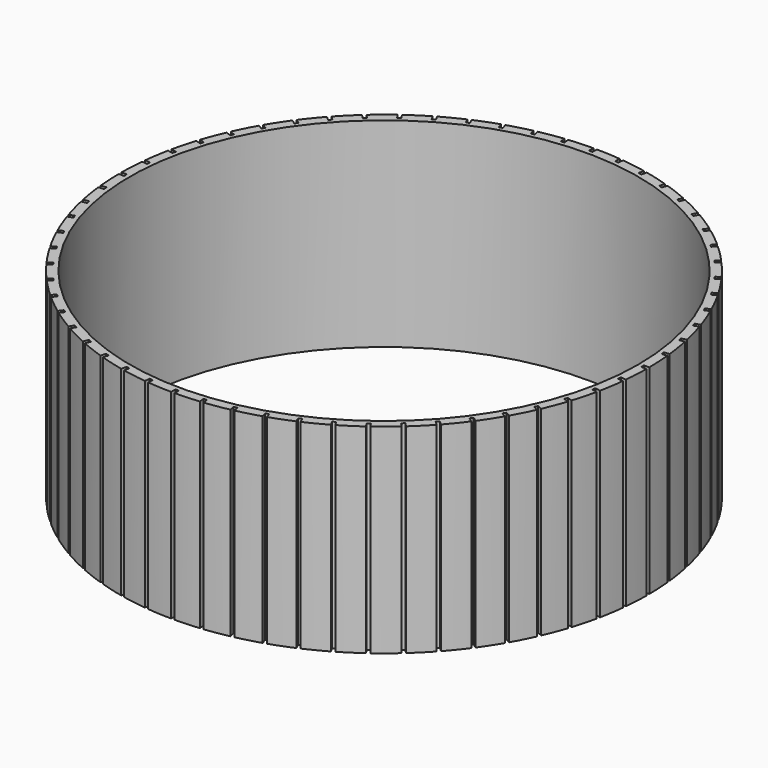
from build123d import *

# Parameters (mm, degrees)
F0_R     = 137.5
F0_R_2   = 132.5
F1_DEPTH = 104
F2_W     = 1.8
F2_H     = 5.6
F2_W_2   = 5.6
F2_H_2   = 1.8
F3_DEPTH = 104.001


with BuildPart() as f1:
    # F0 (on Top) → F1 (new body)
    with BuildSketch(Plane.XY):
        Circle(F0_R)
        Circle(F0_R_2, mode=Mode.SUBTRACT)
    extrude(amount=F1_DEPTH)

    # F2 (on face) → F3 (cut, through all)
    with BuildSketch(Plane.XY.offset(104)):
        with Locations((0, -137.5)):
            Rectangle(F2_W, F2_H)
        Polygon((13.184914, -134.056175), (13.770274, -139.625498), (15.560413, -139.437346), (14.975054, -133.868024), align=None)
        Polygon((27.125372, -131.943602), (28.289677, -137.421229), (30.050343, -137.046988), (28.886038, -131.569361), align=None)
        Polygon((40.768638, -128.385428), (42.499133, -133.711345), (44.211035, -133.155114), (42.48054, -127.829197), align=None)
        Polygon((53.965235, -123.420636), (56.24296, -128.536491), (57.887342, -127.804365), (55.609617, -122.68851), align=None)
        Polygon((66.570577, -117.103622), (69.370577, -121.953364), (70.929423, -121.053364), (68.129423, -116.203622), align=None)
        Polygon((78.446558, -109.503596), (81.738156, -114.034091), (83.194386, -112.976078), (79.902789, -108.445582), align=None)
        Polygon((89.463062, -100.703826), (93.210194, -104.865437), (94.547854, -103.661001), (90.800723, -99.49939), align=None)
        Polygon((99.49939, -90.800723), (103.661001, -94.547854), (104.865437, -93.210194), (100.703826, -89.463062), align=None)
        Polygon((108.445582, -79.902789), (112.976078, -83.194386), (114.034091, -81.738156), (109.503596, -78.446558), align=None)
        Polygon((116.203622, -68.129423), (121.053364, -70.929423), (121.953364, -69.370577), (117.103622, -66.570577), align=None)
        Polygon((122.68851, -55.609617), (127.804365, -57.887342), (128.536491, -56.24296), (123.420636, -53.965235), align=None)
        Polygon((127.829197, -42.48054), (133.155114, -44.211035), (133.711345, -42.499133), (128.385428, -40.768638), align=None)
        Polygon((131.569361, -28.886038), (137.046988, -30.050343), (137.421229, -28.289677), (131.943602, -27.125372), align=None)
        Polygon((133.868024, -14.975054), (139.437346, -15.560413), (139.625498, -13.770274), (134.056175, -13.184914), align=None)
        with Locations((137.5, 0)):
            Rectangle(F2_W_2, F2_H_2)
        Polygon((134.056175, 13.184914), (139.625498, 13.770274), (139.437346, 15.560413), (133.868024, 14.975054), align=None)
        Polygon((131.943602, 27.125372), (137.421229, 28.289677), (137.046988, 30.050343), (131.569361, 28.886038), align=None)
        Polygon((128.385428, 40.768638), (133.711345, 42.499133), (133.155114, 44.211035), (127.829197, 42.48054), align=None)
        Polygon((123.420636, 53.965235), (128.536491, 56.24296), (127.804365, 57.887342), (122.68851, 55.609617), align=None)
        Polygon((117.103622, 66.570577), (121.953364, 69.370577), (121.053364, 70.929423), (116.203622, 68.129423), align=None)
        Polygon((109.503596, 78.446558), (114.034091, 81.738156), (112.976078, 83.194386), (108.445582, 79.902789), align=None)
        Polygon((100.703826, 89.463062), (104.865437, 93.210194), (103.661001, 94.547854), (99.49939, 90.800723), align=None)
        Polygon((90.800723, 99.49939), (94.547854, 103.661001), (93.210194, 104.865437), (89.463062, 100.703826), align=None)
        Polygon((79.902789, 108.445582), (83.194386, 112.976078), (81.738156, 114.034091), (78.446558, 109.503596), align=None)
        Polygon((68.129423, 116.203622), (70.929423, 121.053364), (69.370577, 121.953364), (66.570577, 117.103622), align=None)
        Polygon((55.609617, 122.68851), (57.887342, 127.804365), (56.24296, 128.536491), (53.965235, 123.420636), align=None)
        Polygon((42.48054, 127.829197), (44.211035, 133.155114), (42.499133, 133.711345), (40.768638, 128.385428), align=None)
        Polygon((28.886038, 131.569361), (30.050343, 137.046988), (28.289677, 137.421229), (27.125372, 131.943602), align=None)
        Polygon((14.975054, 133.868024), (15.560413, 139.437346), (13.770274, 139.625498), (13.184914, 134.056175), align=None)
        with Locations((0, 137.5)):
            Rectangle(F2_W, F2_H)
        Polygon((-13.184914, 134.056175), (-13.770274, 139.625498), (-15.560413, 139.437346), (-14.975054, 133.868024), align=None)
        Polygon((-27.125372, 131.943602), (-28.289677, 137.421229), (-30.050343, 137.046988), (-28.886038, 131.569361), align=None)
        Polygon((-40.768638, 128.385428), (-42.499133, 133.711345), (-44.211035, 133.155114), (-42.48054, 127.829197), align=None)
        Polygon((-53.965235, 123.420636), (-56.24296, 128.536491), (-57.887342, 127.804365), (-55.609617, 122.68851), align=None)
        Polygon((-66.570577, 117.103622), (-69.370577, 121.953364), (-70.929423, 121.053364), (-68.129423, 116.203622), align=None)
        Polygon((-78.446558, 109.503596), (-81.738156, 114.034091), (-83.194386, 112.976078), (-79.902789, 108.445582), align=None)
        Polygon((-89.463062, 100.703826), (-93.210194, 104.865437), (-94.547854, 103.661001), (-90.800723, 99.49939), align=None)
        Polygon((-99.49939, 90.800723), (-103.661001, 94.547854), (-104.865437, 93.210194), (-100.703826, 89.463062), align=None)
        Polygon((-108.445582, 79.902789), (-112.976078, 83.194386), (-114.034091, 81.738156), (-109.503596, 78.446558), align=None)
        Polygon((-116.203622, 68.129423), (-121.053364, 70.929423), (-121.953364, 69.370577), (-117.103622, 66.570577), align=None)
        Polygon((-122.68851, 55.609617), (-127.804365, 57.887342), (-128.536491, 56.24296), (-123.420636, 53.965235), align=None)
        Polygon((-127.829197, 42.48054), (-133.155114, 44.211035), (-133.711345, 42.499133), (-128.385428, 40.768638), align=None)
        Polygon((-131.569361, 28.886038), (-137.046988, 30.050343), (-137.421229, 28.289677), (-131.943602, 27.125372), align=None)
        Polygon((-133.868024, 14.975054), (-139.437346, 15.560413), (-139.625498, 13.770274), (-134.056175, 13.184914), align=None)
        with Locations((-137.5, 0)):
            Rectangle(F2_W_2, F2_H_2)
        Polygon((-134.056175, -13.184914), (-139.625498, -13.770274), (-139.437346, -15.560413), (-133.868024, -14.975054), align=None)
        Polygon((-131.943602, -27.125372), (-137.421229, -28.289677), (-137.046988, -30.050343), (-131.569361, -28.886038), align=None)
        Polygon((-128.385428, -40.768638), (-133.711345, -42.499133), (-133.155114, -44.211035), (-127.829197, -42.48054), align=None)
        Polygon((-123.420636, -53.965235), (-128.536491, -56.24296), (-127.804365, -57.887342), (-122.68851, -55.609617), align=None)
        Polygon((-117.103622, -66.570577), (-121.953364, -69.370577), (-121.053364, -70.929423), (-116.203622, -68.129423), align=None)
        Polygon((-109.503596, -78.446558), (-114.034091, -81.738156), (-112.976078, -83.194386), (-108.445582, -79.902789), align=None)
        Polygon((-100.703826, -89.463062), (-104.865437, -93.210194), (-103.661001, -94.547854), (-99.49939, -90.800723), align=None)
        Polygon((-90.800723, -99.49939), (-94.547854, -103.661001), (-93.210194, -104.865437), (-89.463062, -100.703826), align=None)
        Polygon((-79.902789, -108.445582), (-83.194386, -112.976078), (-81.738156, -114.034091), (-78.446558, -109.503596), align=None)
        Polygon((-68.129423, -116.203622), (-70.929423, -121.053364), (-69.370577, -121.953364), (-66.570577, -117.103622), align=None)
        Polygon((-55.609617, -122.68851), (-57.887342, -127.804365), (-56.24296, -128.536491), (-53.965235, -123.420636), align=None)
        Polygon((-42.48054, -127.829197), (-44.211035, -133.155114), (-42.499133, -133.711345), (-40.768638, -128.385428), align=None)
        Polygon((-28.886038, -131.569361), (-30.050343, -137.046988), (-28.289677, -137.421229), (-27.125372, -131.943602), align=None)
        Polygon((-14.975054, -133.868024), (-15.560413, -139.437346), (-13.770274, -139.625498), (-13.184914, -134.056175), align=None)
    extrude(amount=-F3_DEPTH, mode=Mode.SUBTRACT)


solid = f1.part
